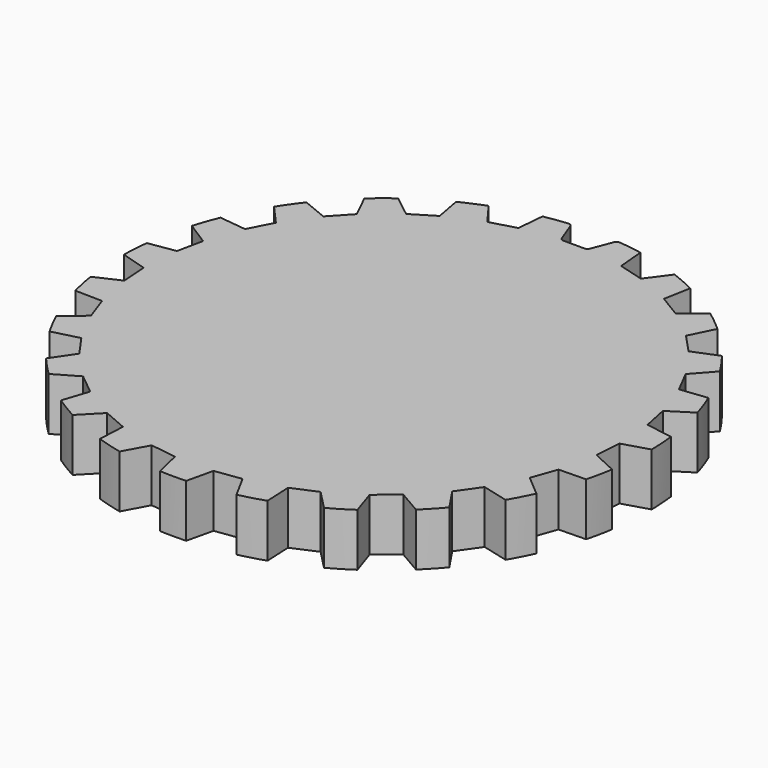
from build123d import *

# Parameters (mm, degrees)
F0_R     = 10
F1_DEPTH = 2
F3_DEPTH = 25
F4_COUNT = 23
F5_R     = 0.15


with BuildPart() as f1:
    # F0 (on Top) → F1 (new body)
    with BuildSketch(Plane.XY):
        Circle(F0_R)
    extrude(amount=F1_DEPTH)

    # F2 (on face) → F3 (cut)
    with BuildSketch(Plane.XY.offset(2)):
        with BuildLine():
            Line((0, 10), (0, 9))
            Line((0, 9), (0.5, 9))
            Line((0.5, 9), (0.8657328431, 9.9624548503))
            ThreePointArc((0.8657328431, 9.9624548503), (0.4332732954, 9.9906093033), (0, 10))
        make_face()
        with BuildLine():
            Line((-0.5, 9), (0, 9))
            Line((0, 9), (0, 10))
            ThreePointArc((0, 10), (-0.4332732954, 9.9906093033), (-0.8657328431, 9.9624548503))
            Line((-0.8657328431, 9.9624548503), (-0.5, 9))
        make_face()
    f3 = extrude(amount=-F3_DEPTH, mode=Mode.SUBTRACT)

    # F4: F3 ×23 about axis
    f4_axis = Axis((0, 0, 0), (0, 0, -1))
    for i in range(1, F4_COUNT):
        add(f3.rotate(f4_axis, i * 360 / F4_COUNT), mode=Mode.SUBTRACT)

    # F5
    f5_edges = [f1.edges().sort_by_distance(p)[0] for p in [
        (0.5, 9, 1),
        (-0.5, 9, 1),
        (0.865733, 9.962455, 1),
        (-0.865733, 9.962455, 1),
    ]]
    fillet(f5_edges, radius=F5_R)


solid = f1.part
